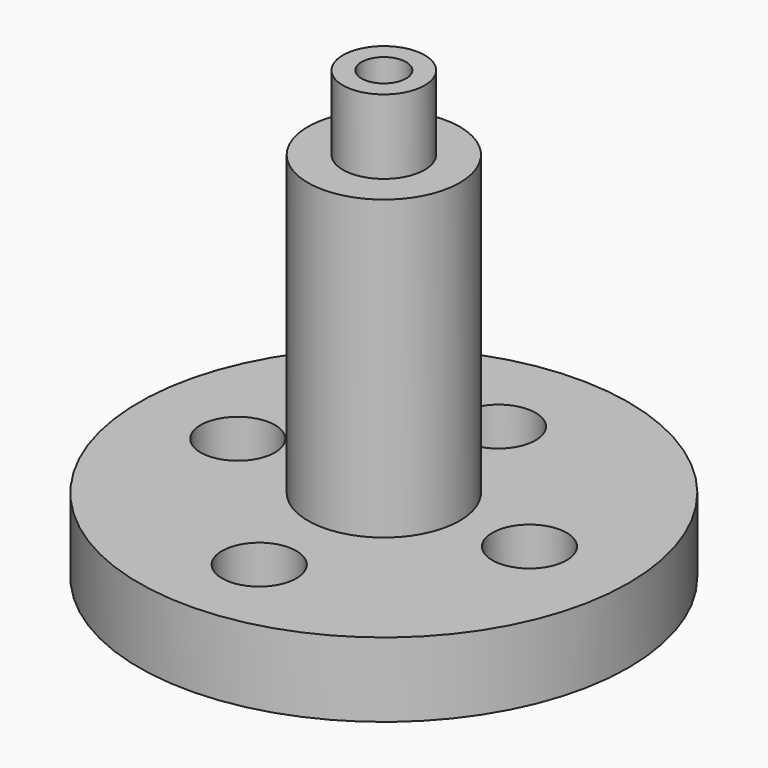
from build123d import *

# Parameters (mm, degrees)
F0_R     = 41.79738
F1_DEPTH = 12.7
F2_R     = 12.959367
F3_DEPTH = 50.8
F4_R     = 6.983691
F5_DEPTH = 12.7
F8_D     = 7.62
F10_D    = 12.7


with BuildPart() as f1:
    # F0 (on Top) → F1 (new body)
    with BuildSketch(Plane.XY):
        Circle(F0_R)
    extrude(amount=F1_DEPTH)

    # F2 (on face) → F3 (join)
    with BuildSketch(Plane.XY.offset(12.7)):
        Circle(F2_R)
    extrude(amount=F3_DEPTH)

    # F4 (on face) → F5 (join)
    with BuildSketch(Plane.XY.offset(63.5)):
        Circle(F4_R)
        Circle(F4_R)
    extrude(amount=F5_DEPTH)

    # F8 (through all)
    with Locations(Plane.XY.offset(76.2)):
        with Locations((0, 0)):
            Hole(F8_D / 2)

    # F10 (through all)
    with Locations(Plane.XY.offset(12.7)):
        with Locations((0, -26.591428), (-24.934307, 0), (24.870217, 0), (0, 24.461392)):
            Hole(F10_D / 2)


solid = f1.part
